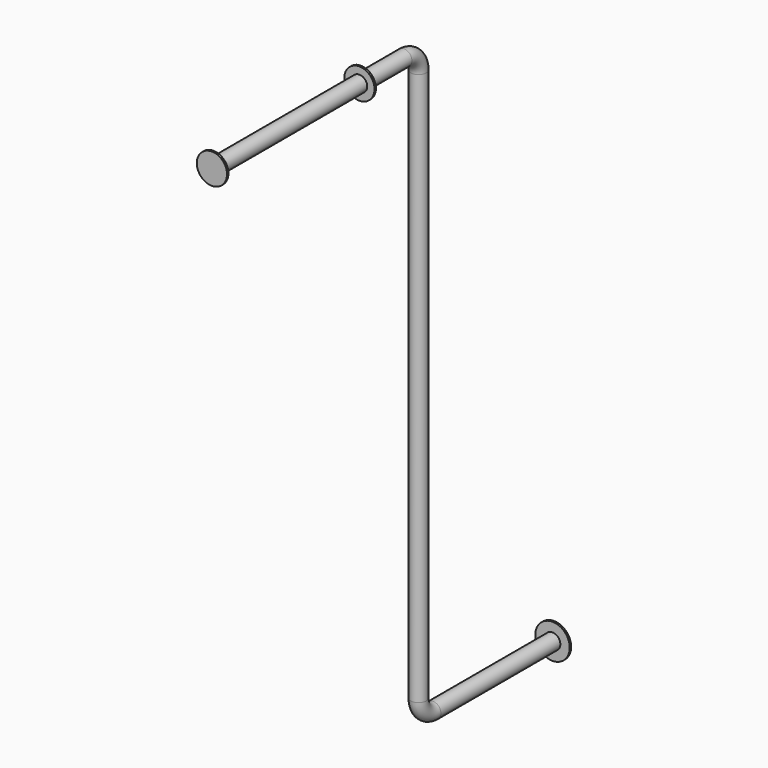
from build123d import *

# Parameters (mm, degrees)
F0_R      = 142.5
F5_DEPTH  = 15
F2_R      = 65
F4_R      = 125
F7_DEPTH  = 15
F9_R      = 125
F10_DEPTH = 15


with BuildPart() as f5:
    # F0 (on Front) → F5 (new body)
    with BuildSketch(Plane.XZ):
        Circle(F0_R)
    extrude(amount=F5_DEPTH)

    # F6: sweep along a path in F1
    with BuildLine(Plane.YZ) as f6_path:
        Line((0, 0), (-1250, 0))
        ThreePointArc((-1250, 0), (-1356.066017, 43.933983), (-1400, 150))
        Line((-1400, 150), (-1400, 4723.8))
        ThreePointArc((-1400, 4723.8), (-1443.933983, 4829.866017), (-1550, 4873.8))
        Line((-1550, 4873.8), (-3537, 4873.8))
    # F2 (on Front) → F6 (sweep)
    with BuildSketch(Plane.XZ):
        Circle(F2_R)
    sweep(path=f6_path.line)

    # F4 (on offset) → F7 (join)
    with BuildSketch(Plane.XZ.offset(3537)):
        with Locations((0, 4873.8)):
            Circle(F4_R)
    extrude(amount=-F7_DEPTH)

    # F9 (on offset) → F10 (join)
    with BuildSketch(Plane.XZ.offset(1997)):
        with Locations((0, 4873.448849)):
            Circle(F9_R)
    extrude(amount=F10_DEPTH)


solid = f5.part
